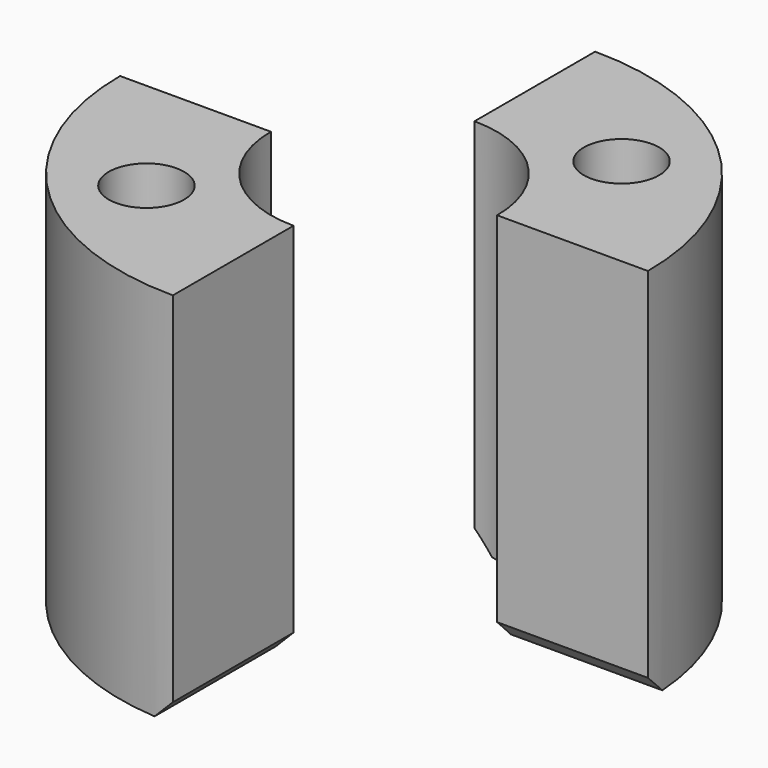
from build123d import *

# Parameters (mm, degrees)
CYLINDER059_R     = 1
CYLINDER059_DEPTH = 20
CYLINDER056_R     = 1
CYLINDER056_DEPTH = 20
CYLINDER058_R     = 2
CYLINDER058_DEPTH = 2
CYLINDER057_R     = 2
CYLINDER057_DEPTH = 2
CYLINDER055_R     = 3
CYLINDER055_DEPTH = 5
CYLINDER054_R     = 3
CYLINDER054_DEPTH = 5
BOX334_W          = 10
BOX334_H          = 20
BOX334_DEPTH      = 10
BOX332_W          = 10
BOX332_H          = 20
BOX332_DEPTH      = 10
TUBE052_R         = 7
TUBE052_R_2       = 1
TUBE052_DEPTH     = 10
CHAMFER010_SIZE   = 0.5


with BuildPart() as obj1:
    # Cylinder059 → Cylinder059 (new body)
    with BuildSketch(Plane(origin=(-3.5, -3.5, 0), x_dir=(1, 0, 0), z_dir=(0, 0, 1))):
        Circle(CYLINDER059_R)
    extrude(amount=CYLINDER059_DEPTH)


with BuildPart() as compound032:
    # Cylinder056 → Cylinder056 (new body)
    with BuildSketch(Plane(origin=(3.5, 3.5, 0), x_dir=(1, 0, 0), z_dir=(0, 0, 1))):
        Circle(CYLINDER056_R)
    extrude(amount=CYLINDER056_DEPTH)

    # Compound032: union obj1
    add(obj1.part)


with BuildPart() as obj2:
    # Cylinder058 → Cylinder058 (new body)
    with BuildSketch(Plane(origin=(-3.5, -3.5, 0), x_dir=(1, 0, 0), z_dir=(0, 0, 1))):
        Circle(CYLINDER058_R)
    extrude(amount=CYLINDER058_DEPTH)


with BuildPart() as compound031:
    # Cylinder057 → Cylinder057 (new body)
    with BuildSketch(Plane(origin=(3.5, 3.5, 0), x_dir=(1, 0, 0), z_dir=(0, 0, 1))):
        Circle(CYLINDER057_R)
    extrude(amount=CYLINDER057_DEPTH)

    # Compound031: union obj2
    add(obj2.part)


with BuildPart() as obj3:
    # Cylinder055 → Cylinder055 (new body)
    with BuildSketch(Plane.XY.offset(5)):
        Circle(CYLINDER055_R)
    extrude(amount=CYLINDER055_DEPTH)


with BuildPart() as obj4:
    # Cylinder054 → Cylinder054 (new body)
    with BuildSketch(Plane.XY):
        Circle(CYLINDER054_R)
    extrude(amount=CYLINDER054_DEPTH)


with BuildPart() as krychle334:
    # Box334 → Box334 (new body)
    with BuildSketch(Plane(origin=(0, 0, 0), x_dir=(0, 1, 0), z_dir=(0, 0, 1))):
        with Locations((5, 10)):
            Rectangle(BOX334_W, BOX334_H)
    extrude(amount=BOX334_DEPTH)


with BuildPart() as compound030:
    # Box332 → Box332 (new body)
    with BuildSketch(Plane(origin=(0, 0, 0), x_dir=(0, -1, 0), z_dir=(0, 0, 1))):
        with Locations((5, 10)):
            Rectangle(BOX332_W, BOX332_H)
    extrude(amount=BOX332_DEPTH)

    # Compound030: union Krychle334
    add(krychle334.part)


with BuildPart() as chamfer010:
    # Tube052 → Tube052 (new body)
    with BuildSketch(Plane.XY):
        Circle(TUBE052_R)
        Circle(TUBE052_R_2, mode=Mode.SUBTRACT)
    extrude(amount=TUBE052_DEPTH)

    # Cut030: cut Compound030
    add(compound030.part, mode=Mode.SUBTRACT)

    # Cut031: cut obj4
    add(obj4.part, mode=Mode.SUBTRACT)

    # Cut032: cut obj3
    add(obj3.part, mode=Mode.SUBTRACT)

    # Cut033: cut Compound031
    add(compound031.part, mode=Mode.SUBTRACT)

    # Cut034: cut Compound032
    add(compound032.part, mode=Mode.SUBTRACT)

    # Chamfer010
    chamfer010_edges = [chamfer010.edges().sort_by_distance(p)[0] for p in [
        (0, 5, 0),
        (5, 0, 0),
        (0, -5, 0),
        (-5, 0, 0),
    ]]
    chamfer(chamfer010_edges, length=CHAMFER010_SIZE)


solid = chamfer010.part
